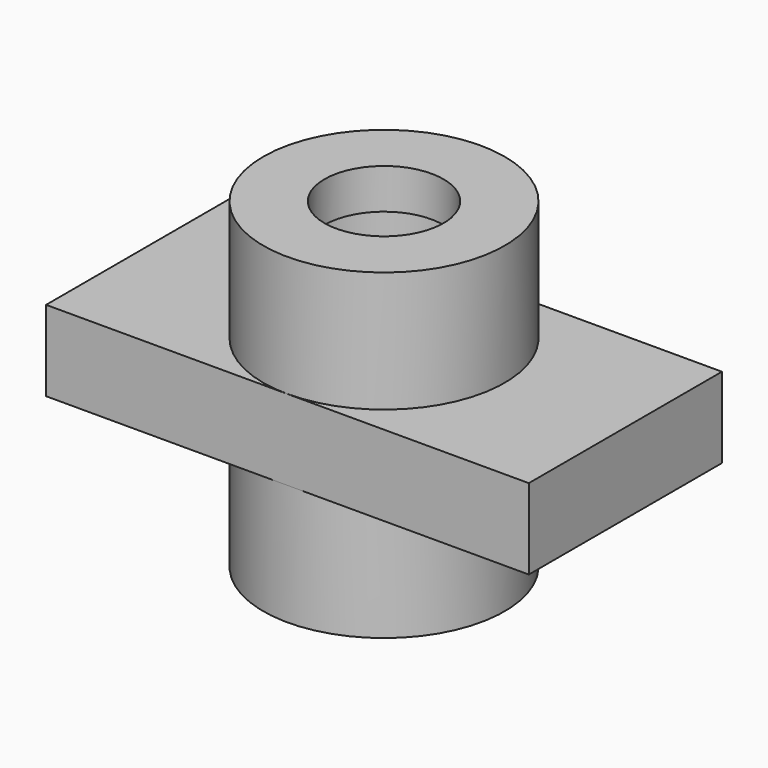
from build123d import *

# Parameters (mm, degrees)
F0_W     = 9.398
F0_H     = 19.05
F0_H_2   = 12.7
F0_W_2   = 9.652
F3_DEPTH = 25.4
F5_DEPTH = 12.7


with BuildPart() as f1:
    # F0 (on Front) → F1 (revolve)
    with BuildSketch(Plane.XZ):
        with Locations((-4.699, 9.525)):
            Rectangle(F0_W, F0_H)
        with Locations((-4.699, 25.4)):
            Rectangle(F0_W, F0_H_2)
        with Locations((-14.224, 9.525)):
            Rectangle(F0_W_2, F0_H)
        Polygon((-9.398, 31.75), (0, 31.75), (0, 50.8), (-9.398, 50.8), (-9.398, 44.45), (-12.446, 44.45), (-12.446, 38.1), (-9.398, 38.1), align=None)
        Polygon((-19.05, 19.05), (-9.398, 19.05), (-9.398, 31.75), (-19.05, 31.75), (-38.1, 31.75), (-38.1, 19.05), align=None)
        Polygon((-19.05, 31.75), (-9.398, 31.75), (-9.398, 38.1), (-12.446, 38.1), (-12.446, 44.45), (-9.398, 44.45), (-9.398, 50.8), (-19.05, 50.8), align=None)
    revolve(axis=Axis((0, 0, 25.4), (0, 0, 1)))

    # F2 (on face) → F3 (cut)
    with BuildSketch(Plane.XY.offset(31.75)):
        with BuildLine():
            Line((3.68e-08, 19.05), (32.9955678842, 19.05))
            ThreePointArc((32.9955678842, 19.05), (0, 38.1), (-32.9955678842, 19.05))
            Line((-32.9955678842, 19.05), (3.68e-08, 19.05))
        make_face()
        with BuildLine():
            ThreePointArc((-32.9955678842, -19.05), (0, -38.1), (32.9955678842, -19.05))
            Line((32.9955678842, -19.05), (3.68e-08, -19.05))
            Line((3.68e-08, -19.05), (-32.9955678842, -19.05))
        make_face()
    extrude(amount=-F3_DEPTH, mode=Mode.SUBTRACT)

    # F4 (on face) → F5 (join, through all)
    with BuildSketch(Plane.XY.offset(31.75)):
        with BuildLine():
            Line((-38.1, 19.05), (-38.1, 0))
            ThreePointArc((-38.1, 0), (-36.8017739816, 9.8610056184), (-32.9955678842, 19.05))
            Line((-32.9955678842, 19.05), (-38.1, 19.05))
        make_face()
        with BuildLine():
            ThreePointArc((-32.9955678842, -19.05), (-36.8017739816, -9.8610056184), (-38.1, 0))
            Line((-38.1, 0), (-38.1, -19.05))
            Line((-38.1, -19.05), (-32.9955678842, -19.05))
        make_face()
        with BuildLine():
            ThreePointArc((32.9955678842, 19.05), (36.8017739816, 9.8610056184), (38.1, 0))
            Line((38.1, 0), (38.1, 19.05))
            Line((38.1, 19.05), (32.9955678842, 19.05))
        make_face()
        with BuildLine():
            Line((38.1, -19.05), (38.1, 0))
            ThreePointArc((38.1, 0), (36.8017739816, -9.8610056184), (32.9955678842, -19.05))
            Line((32.9955678842, -19.05), (38.1, -19.05))
        make_face()
    extrude(amount=-F5_DEPTH)

    # F6 (on Front) → F7 (revolve, cut)
    with BuildSketch(Plane.XZ):
        Polygon((0, 50.8), (-9.398, 50.8), (-9.398, 44.45), (-12.446, 44.45), (-12.446, 38.1), (-9.398, 38.1), (-9.398, 0), (0, 0), align=None)
    revolve(axis=Axis((0, 0, 25.4), (0, 0, 1)), mode=Mode.SUBTRACT)


solid = f1.part
